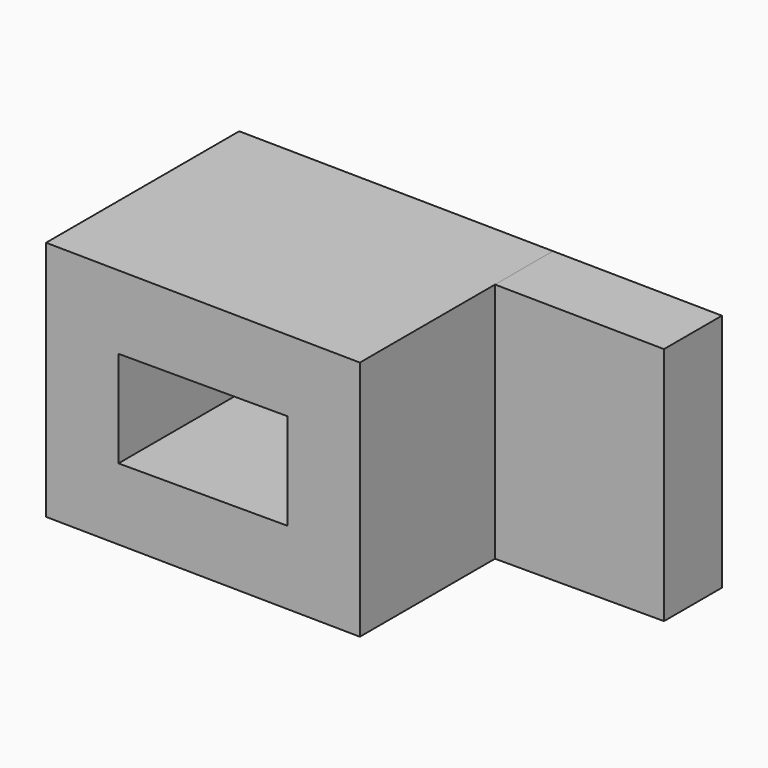
from build123d import *

# Parameters (mm, degrees)
F0_W     = 44.446052
F0_H     = 25.374268
F1_DEPTH = 63.5
F2_DEPTH = 19.05


with BuildPart() as f1:
    # F0 (on Front) → F1 (new body)
    with BuildSketch(Plane.XZ):
        Polygon((46.742237, 35.522468), (-35.80263, 36.443043), (-35.80263, -27.056957), (46.742237, -27.977532), align=None)
        with Locations((5.470451, 4.219889)):
            Rectangle(F0_W, F0_H, mode=Mode.SUBTRACT)
    extrude(amount=F1_DEPTH)

    # F0 (on Front) → F2 (join)
    with BuildSketch(Plane.XZ):
        Polygon((91.189473, 35.026773), (46.742237, 35.522468), (46.742237, -27.977532), (91.189473, -27.977532), align=None)
    extrude(amount=F2_DEPTH)


solid = f1.part
